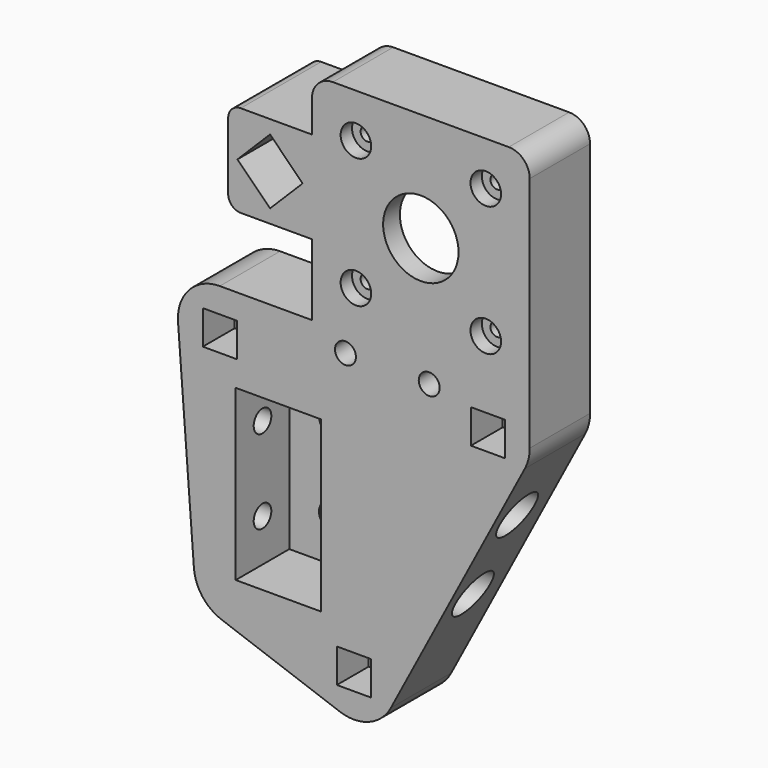
from build123d import *

# Parameters (mm, degrees)
SKETCH003_R          = 9
SKETCH003_R_2        = 3.125
PAD_DEPTH            = 18
SKETCH005_R          = 2.5
POCKET_DEPTH         = 19.001
POCKET_DEPTH_BACK    = 0.001
POCKET007_DEPTH      = 13
SKETCH025_R          = 1.6
POCKET008_DEPTH      = 18.001
POCKET008_DEPTH_BACK = 0.001
SKETCH026_R          = 3.65
POCKET009_DEPTH      = 3.4
SKETCH075_R          = 2.5
POCKET038_DEPTH      = 18.001
SKETCH033_W          = 8.1
SKETCH033_H          = 8.1
POCKET011_DEPTH      = 7.251
SKETCH030_W          = 8.1
SKETCH030_H          = 8.1
POCKET010_DEPTH      = 9.5
SKETCH034_W          = 20.4
SKETCH034_H          = 40.4
POCKET012_DEPTH      = 16
SKETCH035_R          = 2.63
POCKET013_DEPTH      = 52.001
POCKET013_DEPTH_BACK = 32.001
SKETCH036_R          = 5.25
POCKET014_DEPTH      = 46.001
SKETCH037_R          = 5.25
POCKET015_DEPTH      = 10.001
PAD032_DEPTH         = 6
POCKET053_DEPTH      = 20
SKETCH106_R          = 2.1
POCKET054_DEPTH      = 0.001
POCKET054_DEPTH_BACK = 24.001


with BuildPart() as obj1:
    # Sketch003 → Pad (new body)
    with BuildSketch(Plane.XZ.offset(-1)):
        with BuildLine():
            ThreePointArc((-32, 40.35), (-39.331308, 37.150876), (-41.971864, 29.600384))
            Line((-41.971864, 29.600384), (-38.171864, -20.949616))
            ThreePointArc((-38.171864, -20.949616), (-36.159823, -26.253199), (-31.586604, -29.609087))
            Line((-31.586604, -29.609087), (-3.386604, -39.759087))
            ThreePointArc((-3.386604, -39.759087), (3.616839, -39.673008), (8.846019, -35.01347))
            Line((40.846019, 25.68653), (8.846019, -35.01347))
            ThreePointArc((40.846019, 25.68653), (41.707219, 27.947937), (42, 30.35))
            Line((42, 30.35), (42, 40.35))
            Line((42, 87), (42, 40.35))
            ThreePointArc((42, 87), (40.535534, 90.535534), (37, 92))
            Line((-5, 92), (37, 92))
            ThreePointArc((-5, 92), (-8.535534, 90.535534), (-10, 87))
            Line((-10, 79.35), (-10, 87))
            Line((-10, 79.35), (-27, 79.35))
            ThreePointArc((-27, 79.35), (-29.12132, 78.47132), (-30, 76.35))
            Line((-30, 76.35), (-30, 60.35))
            ThreePointArc((-30, 60.35), (-29.12132, 58.22868), (-27, 57.35))
            Line((-10, 57.35), (-27, 57.35))
            Line((-10, 40.35), (-10, 57.35))
            Line((-32, 40.35), (-10, 40.35))
        make_face()
        with Locations((16, 66)):
            Circle(SKETCH003_R, mode=Mode.SUBTRACT)
        with Locations((-18, 10)):
            Circle(SKETCH003_R_2, mode=Mode.SUBTRACT)
        with Locations((-18, -10)):
            Circle(SKETCH003_R_2, mode=Mode.SUBTRACT)
    extrude(amount=-PAD_DEPTH)

    # Sketch005 → Pocket (cut, two sides)
    with BuildSketch(Plane.XZ) as pocket_sk:
        with Locations((-32, 30.35)):
            Circle(SKETCH005_R)
        with Locations((32, 30.35)):
            Circle(SKETCH005_R)
        with Locations((0, -30.35)):
            Circle(SKETCH005_R)
    extrude(amount=-POCKET_DEPTH, mode=Mode.SUBTRACT)
    extrude(pocket_sk.sketch, amount=POCKET_DEPTH_BACK, mode=Mode.SUBTRACT)

    with BuildSketch(Plane(origin=(16, 14, 66), x_dir=(-1, 0, 0), z_dir=(0, 1, 0))):
        with BuildLine():
            Line((-20, 22), (20, 22))
            ThreePointArc((22, 20), (21.414214, 21.414214), (20, 22))
            Line((22, 20), (22, -20))
            ThreePointArc((20, -22), (21.414214, -21.414214), (22, -20))
            Line((20, -22), (-20, -22))
            ThreePointArc((-22, -20), (-21.414214, -21.414214), (-20, -22))
            Line((-22, -20), (-22, 20))
            ThreePointArc((-20, 22), (-21.414214, 21.414214), (-22, 20))
        make_face()
    extrude(amount=-POCKET007_DEPTH, mode=Mode.SUBTRACT)

    with BuildSketch(Plane(origin=(16, 19, 66), x_dir=(-1, 0, 0), z_dir=(0, 1, 0))) as pocket008_sk:
        with Locations((-15.5, 15.5)):
            Circle(SKETCH025_R)
        with Locations((15.5, 15.5)):
            Circle(SKETCH025_R)
        with Locations((-15.5, -15.5)):
            Circle(SKETCH025_R)
        with Locations((15.5, -15.5)):
            Circle(SKETCH025_R)
    extrude(amount=-POCKET008_DEPTH, mode=Mode.SUBTRACT)
    extrude(pocket008_sk.sketch, amount=POCKET008_DEPTH_BACK, mode=Mode.SUBTRACT)

    with BuildSketch(Plane(origin=(16, 19, 66), x_dir=(-1, 0, 0), z_dir=(0, 1, 0))):
        with Locations((-15.5, 15.5)):
            Circle(SKETCH026_R)
        with Locations((15.5, 15.5)):
            Circle(SKETCH026_R)
        with Locations((-15.5, -15.5)):
            Circle(SKETCH026_R)
        with Locations((15.5, -15.5)):
            Circle(SKETCH026_R)
    extrude(amount=-POCKET009_DEPTH, mode=Mode.SUBTRACT)

    with BuildSketch(Plane(origin=(8, 19, 36), x_dir=(-1, 0, 0), z_dir=(0, 1, 0))):
        with Locations((-10, 0)):
            Circle(SKETCH075_R)
        with Locations((10, 0)):
            Circle(SKETCH075_R)
    extrude(amount=-POCKET038_DEPTH, mode=Mode.SUBTRACT)

    with BuildSketch(Plane(origin=(8, 8.25, 36), x_dir=(-1, 0, 0), z_dir=(0, 1, 0))):
        with Locations((-10, 0)):
            Rectangle(SKETCH033_W, SKETCH033_H)
        with Locations((10, 0)):
            Rectangle(SKETCH033_W, SKETCH033_H)
    extrude(amount=-POCKET011_DEPTH, mode=Mode.SUBTRACT)

    # Sketch030 (on DatumPlane) → Pocket010 (cut)
    with BuildSketch(Plane(origin=(0, 19, 0), x_dir=(-1, 0, 0), z_dir=(0, 1, 0))):
        with Locations((-32, 30.35)):
            Rectangle(SKETCH030_W, SKETCH030_H)
        with Locations((32, 30.35)):
            Rectangle(SKETCH030_W, SKETCH030_H)
        with Locations((0, -30.35)):
            Rectangle(SKETCH030_W, SKETCH030_H)
    extrude(amount=-POCKET010_DEPTH, mode=Mode.SUBTRACT)

    # Sketch034 (on DatumPlane) → Pocket012 (cut)
    with BuildSketch(Plane(origin=(0, 19, 0), x_dir=(-1, 0, 0), z_dir=(0, 1, 0))):
        with Locations((18, 0)):
            Rectangle(SKETCH034_W, SKETCH034_H)
    extrude(amount=-POCKET012_DEPTH, mode=Mode.SUBTRACT)

    # Sketch035 → Pocket013 (cut, two sides)
    with BuildSketch(Plane(origin=(10, 11, 0), x_dir=(0, 1, 0), z_dir=(1, 0, 0))) as pocket013_sk:
        with Locations((0, 10)):
            Circle(SKETCH035_R)
        with Locations((0, -10)):
            Circle(SKETCH035_R)
    extrude(amount=-POCKET013_DEPTH, mode=Mode.SUBTRACT)
    extrude(pocket013_sk.sketch, amount=POCKET013_DEPTH_BACK, mode=Mode.SUBTRACT)

    # Sketch036 → Pocket014 (cut, through all)
    with BuildSketch(Plane(origin=(-4, 11, 0), x_dir=(0, 1, 0), z_dir=(1, 0, 0))):
        with Locations((0, 10)):
            Circle(SKETCH036_R)
        with Locations((0, -10)):
            Circle(SKETCH036_R)
    extrude(amount=POCKET014_DEPTH, mode=Mode.SUBTRACT)

    # Sketch037 → Pocket015 (cut, through all)
    with BuildSketch(Plane(origin=(-32, 11, 0), x_dir=(0, 1, 0), z_dir=(1, 0, 0))):
        with Locations((0, 10)):
            Circle(SKETCH037_R)
        with Locations((0, -10)):
            Circle(SKETCH037_R)
    extrude(amount=-POCKET015_DEPTH, mode=Mode.SUBTRACT)

    # Sketch104 → Pad032 (join)
    with BuildSketch(Plane.XZ.offset(-1)):
        with BuildLine():
            Line((-13, 79.35), (-27, 79.35))
            ThreePointArc((-27, 79.35), (-29.12132, 78.47132), (-30, 76.35))
            Line((-30, 76.35), (-30, 60.35))
            ThreePointArc((-30, 60.35), (-29.12132, 58.22868), (-27, 57.35))
            Line((-13, 57.35), (-27, 57.35))
            ThreePointArc((-13, 57.35), (-10.87868, 58.22868), (-10, 60.35))
            Line((-10, 76.35), (-10, 60.35))
            ThreePointArc((-10, 76.35), (-10.87868, 78.47132), (-13, 79.35))
        make_face()
    extrude(amount=PAD032_DEPTH)

    # Sketch105 → Pocket053 (cut)
    with BuildSketch(Plane.XZ.offset(-19)):
        Polygon((-20, 76.128175), (-12.221825, 68.35), (-20, 60.571825), (-27.778175, 68.35), align=None)
    extrude(amount=POCKET053_DEPTH, mode=Mode.SUBTRACT)

    # Sketch106 → Pocket054 (cut, two sides)
    with BuildSketch(Plane.XZ.offset(-19)) as pocket054_sk:
        with Locations((-20, 68.35)):
            Circle(SKETCH106_R)
    extrude(amount=-POCKET054_DEPTH, mode=Mode.SUBTRACT)
    extrude(pocket054_sk.sketch, amount=POCKET054_DEPTH_BACK, mode=Mode.SUBTRACT)


with BuildPart() as obj2:
    # Part__Mirroring002: instance of obj1
    add(obj1.part.mirror(Plane(origin=(2.8e-05, 16.506189, 25.826885), x_dir=(1, 0, 0), z_dir=(0, 1, 0))))


solid = obj2.part
